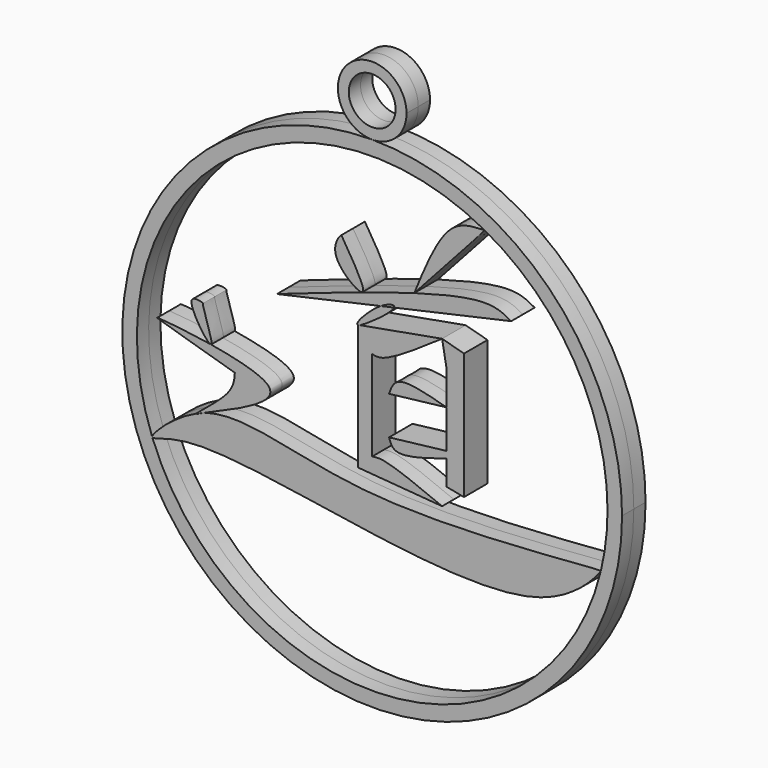
from build123d import *

# Parameters (mm, degrees)
F1_DEPTH = 2
F0_R     = 3.1886034743


with BuildPart() as f1:
    # F0 (on Front) → F1 (new body, symmetric)
    with BuildSketch(Plane.XZ):
        with BuildLine():
            add(Edge.make_bspline(
                [(-23.0578146875, -6.2485882081), (-23.3583668981, -6.354636706), (-23.6570003115, -6.4750779789), (-23.9519339594, -6.6070638823)],
                knots=[0.8874623872, 0.8874623872, 0.8874623872, 0.8874623872, 0.897047407, 0.897047407, 0.897047407, 0.897047407], degree=3))
            add(Edge.make_bspline(
                [(-23.0578146875, -6.2485882081), (-17.7389721809, -3.9790441829), (-9.368772394, -0.4074894898), (-18.6419509874, 1.777119585), (-21.9372625883, 2.3257629736)],
                knots=[0, 0, 0, 0, 0.2991647183, 0.4707919925, 0.4707919925, 0.4707919925, 0.4707919925], degree=3))
            add(Edge.make_bspline(
                [(-21.9372625883, 2.3257629736), (-21.9734135388, 2.3080361054), (-22.0245036058, 2.317611186), (-22.0875613808, 2.3506256316)],
                knots=[0, 0, 0, 0, 0.0314810362, 0.0314810362, 0.0314810362, 0.0314810362], degree=3))
            add(Edge.make_bspline(
                [(-22.0875613808, 2.3506256316), (-25.5816795554, 2.9249114736), (-29.7869262082, 3.2933976155), (-28.4692817, 2.8541862404), (-23.2341246759, 1.3248320898), (-18.6990704387, 0)],
                knots=[0.4734024681, 0.4734024681, 0.4734024681, 0.4734024681, 0.6555584263, 0.7016209426, 1, 1, 1, 1], degree=3))
            add(Edge.make_bspline(
                [(-18.6990704387, 0), (-18.7558922118, -0.8465724681), (-18.8928176547, -2.8564381326), (-23.8943147443, -6.39530831), (-23.9519339594, -6.6070638823)],
                knots=[0, 0, 0, 0, 0.3395189563, 0.8073279822, 0.8073279822, 0.8073279822, 0.8073279822], degree=3))
        make_face()
    extrude(amount=F1_DEPTH, both=True)


with BuildPart() as f1b:
    # F0 (on Front) → F1, piece 2 (new body, symmetric)
    with BuildSketch(Plane.XZ):
        with BuildLine():
            add(Edge.make_bspline(
                [(-21.9372625883, 2.3257629736), (-21.9873847531, 2.3341079186), (-22.0374872008, 2.3423955457), (-22.0875613808, 2.3506256316)],
                knots=[0.4707919925, 0.4707919925, 0.4707919925, 0.4707919925, 0.4734024681, 0.4734024681, 0.4734024681, 0.4734024681], degree=3))
            add(Edge.make_bspline(
                [(-22.0875613808, 2.3506256316), (-22.7865118746, 2.7165672307), (-26.2236129258, 7.8591555502), (-22.8840129067, 6.940981476), (-23.2978602964, 6.8746808847), (-21.5248134705, 2.5280102458), (-21.9372625883, 2.3257629736)],
                knots=[0.0314810362, 0.0314810362, 0.0314810362, 0.0314810362, 0.3804258849, 0.5843541143, 0.6408303126, 1, 1, 1, 1], degree=3))
        make_face()
    extrude(amount=F1_DEPTH, both=True)


with BuildPart() as f1c:
    # F0 (on Front) → F1, piece 3 (new body, symmetric)
    with BuildSketch(Plane.XZ):
        with BuildLine():
            ThreePointArc((31.1204881403, -7.6085659227), (31.1278799464, -7.5782681092), (31.1352422556, -7.5479631146))
            add(Edge.make_bspline(
                [(31.1352422556, -7.5479631146), (30.6115463253, -7.3196606958), (-3.1910873419, -11.3559927527), (-17.2585351085, -4.2023384503), (-23.0578146875, -6.2485882081)],
                knots=[0.4880362271, 0.4880362271, 0.4880362271, 0.4880362271, 0.7025154546, 0.8874623872, 0.8874623872, 0.8874623872, 0.8874623872], degree=3))
            add(Edge.make_bspline(
                [(-23.9519339594, -6.6070638823), (-23.9756650331, -6.6942776194), (-23.517562259, -6.4695682004), (-23.0578146875, -6.2485882081)],
                knots=[0.8073279822, 0.8073279822, 0.8073279822, 0.8073279822, 1, 1, 1, 1], degree=3))
            add(Edge.make_bspline(
                [(-23.9519339594, -6.6070638823), (-27.1198130567, -8.0247230319), (-29.8608544764, -10.7742728824), (-29.9681259604, -11.3263623424)],
                knots=[0.897047407, 0.897047407, 0.897047407, 0.897047407, 1, 1, 1, 1], degree=3))
            ThreePointArc((-29.9681259604, -11.3263623424), (-29.94913051, -11.3764950309), (-29.9300511943, -11.4265958623))
            add(Edge.make_bspline(
                [(-29.9300511943, -11.4265958623), (-29.6373821437, -11.5636180669), (-21.7152427284, -7.4357392596), (22.0268660491, -20.3195375385), (30.775709666, -8.0718314903), (31.1204881403, -7.6085659227)],
                knots=[0.0095833833, 0.0095833833, 0.0095833833, 0.0095833833, 0.0892091936, 0.3527395387, 0.4784384526, 0.4784384526, 0.4784384526, 0.4784384526], degree=3))
        make_face()
    extrude(amount=F1_DEPTH, both=True)


with BuildPart() as f1d:
    # F0 (on Front) → F1, piece 4 (new body, symmetric)
    with BuildSketch(Plane.XZ):
        with BuildLine():
            Line((9.5180645585, 13.2510568947), (-1.7873235685, 11.216087275))
            add(Edge.make_bspline(
                [(-1.7873235685, 11.216087275), (-1.8561171917, 11.1940162061), (-1.9118216362, 11.1836138735), (-1.9523177762, 11.1863883212)],
                knots=[0.9721999653, 0.9721999653, 0.9721999653, 0.9721999653, 1, 1, 1, 1], degree=3))
            Line((-1.9523177762, 11.1863883212), (-1.9523177762, -5.9044775553))
            Line((-1.9523177762, -5.9044775553), (9.5180645585, -6.8221078254))
            add(Edge.make_bspline(
                [(0, -3.9545129985), (0.4407786925, -3.8911353642), (1.8914876751, -3.6825442844), (6.3878572623, -5.5335238574), (9.5180645585, -6.8221078254)],
                knots=[0, 0, 0, 0, 0.3038367431, 1, 1, 1, 1], degree=3))
            Line((0, -3.9545129985), (0, 8.3187939599))
            add(Edge.make_bspline(
                [(0, 8.3187939599), (0.3791205955, 8.2328178616), (1.756200525, 7.9205268365), (6.2566344084, 11.0112403541), (9.5180645585, 13.2510568947)],
                knots=[0, 0, 0, 0, 0.2753076182, 1, 1, 1, 1], degree=3))
        make_face()
    extrude(amount=F1_DEPTH, both=True)


with BuildPart() as f1e:
    # F0 (on Front) → F1, piece 5 (new body, symmetric)
    with BuildSketch(Plane.XZ):
        with BuildLine():
            Line((10.1268256914, -0.9176302701), (10.1268256914, 0))
            Line((10.1268256914, 0), (2.2917236201, -0.9176302701))
            add(Edge.make_bspline(
                [(2.2917236201, -0.9176302701), (2.4691869217, -1.461132962), (3.0184080916, -3.1431888109), (7.2574768088, -1.8159882834), (10.1268256914, -0.9176302701)],
                knots=[0, 0, 0, 0, 0.3231181011, 1, 1, 1, 1], degree=3))
        make_face()
        Polygon((12.5003634021, 12.4481301755), (9.5180645585, 13.2510568947), (10.1268256914, 9.8690501966), (10.1268256914, 5.2217910998), (10.1268256914, 0), (10.1268256914, -0.9176302701), (10.1268256914, -4.2986245826), (12.5003634021, -4.7574397177), align=None)
    extrude(amount=F1_DEPTH, both=True)


with BuildPart() as f1f:
    # F0 (on Front) → F1, piece 6 (new body, symmetric)
    with BuildSketch(Plane.XZ):
        with BuildLine():
            Line((2.2917236201, 4.3041608296), (10.1268256914, 5.2217910998))
            add(Edge.make_bspline(
                [(2.2917236201, 4.3041608296), (2.5566570653, 5.0606052974), (3.2789437266, 7.1228958803), (7.4718621724, 5.9588604395), (10.1268256914, 5.2217910998)],
                knots=[0, 0, 0, 0, 0.3667981971, 1, 1, 1, 1], degree=3))
        make_face()
    extrude(amount=F1_DEPTH, both=True)


with BuildPart() as f1g:
    # F0 (on Front) → F1, piece 7 (new body, symmetric)
    with BuildSketch(Plane.XZ):
        with BuildLine():
            add(Edge.make_bspline(
                [(18.9237743616, 18.4127278626), (18.0213259339, 18.9277339753), (16.0193010817, 20.0702425166), (9.8415568241, 18.6895936468), (5.7328427509, 17.4988398129)],
                knots=[0, 0, 0, 0, 0.2616678816, 0.5804936725, 0.5804936725, 0.5804936725, 0.5804936725], degree=3))
            add(Edge.make_bspline(
                [(5.7328427509, 17.4988398129), (0.326656674, 15.9320632781), (-6.3186115898, 13.6165775751), (-12.9638798535, 11.3010918722)],
                knots=[0.5804936725, 0.5804936725, 0.5804936725, 0.5804936725, 1, 1, 1, 1], degree=3))
            Line((-12.9638798535, 11.3010918722), (1.1585370771, 14.4506960368))
            add(Edge.make_bspline(
                [(1.1585370771, 14.4506960368), (2.2244231832, 15.1168827969), (3.1598069348, 15.3039534966), (2.9799472541, 14.8569098674)],
                knots=[0.3557467005, 0.3557467005, 0.3557467005, 0.3557467005, 0.5846036133, 0.5846036133, 0.5846036133, 0.5846036133], degree=3))
            Line((2.9799472541, 14.8569098674), (18.9237743616, 18.4127278626))
        make_face()
    extrude(amount=F1_DEPTH, both=True)


with BuildPart() as f1h:
    # F0 (on Front) → F1, piece 8 (new body, symmetric)
    with BuildSketch(Plane.XZ):
        with BuildLine():
            add(Edge.make_bspline(
                [(2.9799472541, 14.8569098674), (2.6753335316, 14.0997884079), (-0.8281824135, 11.5238086822), (-1.7873235685, 11.216087275)],
                knots=[0.5846036133, 0.5846036133, 0.5846036133, 0.5846036133, 0.9721999653, 0.9721999653, 0.9721999653, 0.9721999653], degree=3))
            Line((2.9799472541, 14.8569098674), (1.1585370771, 14.4506960368))
            add(Edge.make_bspline(
                [(-1.9523177762, 11.1863883212), (-2.4705318117, 11.221891896), (-0.4983299178, 13.4151418166), (1.1585370771, 14.4506960368)],
                knots=[0, 0, 0, 0, 0.3557467005, 0.3557467005, 0.3557467005, 0.3557467005], degree=3))
            Line((-1.9523177762, 11.1863883212), (-1.7873235685, 11.216087275))
        make_face()
    extrude(amount=F1_DEPTH, both=True)


with BuildPart() as f1i:
    # F0 (on Front) → F1, piece 9 (new body, symmetric)
    with BuildSketch(Plane.XZ):
        with BuildLine():
            add(Edge.make_bspline(
                [(5.7328427509, 17.4988398129), (10.5187431747, 22.7771037569), (15.3245477741, 28.0445263606), (15.3080999086, 28.1431543129)],
                knots=[0, 0, 0, 0, 0.9831852273, 0.9831852273, 0.9831852273, 0.9831852273], degree=3))
            add(Edge.make_bspline(
                [(15.3080999086, 28.1431543129), (13.8149085214, 28.0892244966), (9.9852630683, 27.95090862), (7.3441668481, 21.4593303283), (5.7328427509, 17.4988398129)],
                knots=[0, 0, 0, 0, 0.3899032966, 1, 1, 1, 1], degree=3))
        make_face()
    extrude(amount=F1_DEPTH, both=True)


with BuildPart() as f1j:
    # F0 (on Front) → F1, piece 10 (new body, symmetric)
    with BuildSketch(Plane.XZ):
        with BuildLine():
            add(Edge.make_bspline(
                [(-1.2681921542, 15.3763521294), (-0.8436707695, 16.0299739544), (-4.0685874991, 20.8744299633), (-4.2083587036, 21.4081805452), (-6.4608402672, 18.2779128624), (-1.6429913833, 14.7992858968), (-1.2681921542, 15.3763521294)],
                knots=[0, 0, 0, 0, 0.3604116573, 0.4428416292, 0.6818016331, 1, 1, 1, 1], degree=3))
        make_face()
    extrude(amount=F1_DEPTH, both=True)


with BuildPart() as f1k:
    # F0 (on Front) → F1, piece 11 (new body, symmetric)
    with BuildSketch(Plane.XZ):
        with BuildLine():
            ThreePointArc((0, 34.0185711823), (-24.0547623693, -24.0547623693), (34.0185711823, 0))
            ThreePointArc((34.0185711823, 0), (24.0547623693, 24.0547623693), (0, 34.0185711823))
        make_face()
        with BuildLine():
            ThreePointArc((15.3080999086, 28.1431543129), (27.5390814418, 16.3699129758), (32.0370887799, 0))
            ThreePointArc((32.0370887799, 0), (31.8108281707, -3.8008247241), (31.1352422556, -7.5479631146))
            add(Edge.make_bspline(
                [(31.1204881403, -7.6085659227), (31.1468137936, -7.5731931554), (31.1586772309, -7.5581794658), (31.1352422556, -7.5479631146)],
                knots=[0.4784384526, 0.4784384526, 0.4784384526, 0.4784384526, 0.4880362271, 0.4880362271, 0.4880362271, 0.4880362271], degree=3))
            ThreePointArc((31.1204881403, -7.6085659227), (1.9996557668, -31.9746217226), (-29.9300511943, -11.4265958623))
            add(Edge.make_bspline(
                [(-29.9681259604, -11.3263623424), (-29.9781113694, -11.3777538105), (-29.9652754472, -11.4101045224), (-29.9300511943, -11.4265958623)],
                knots=[0, 0, 0, 0, 0.0095833833, 0.0095833833, 0.0095833833, 0.0095833833], degree=3))
            ThreePointArc((-29.9681259604, -11.3263623424), (-21.0536512645, 24.1478534434), (15.3044210795, 28.1451550522))
            add(Edge.make_bspline(
                [(15.3080999086, 28.1431543129), (15.3078186115, 28.1448410821), (15.3061268529, 28.1450160296), (15.3044210795, 28.1451550522)],
                knots=[0.9831852273, 0.9831852273, 0.9831852273, 0.9831852273, 1, 1, 1, 1], degree=3))
        make_face(mode=Mode.SUBTRACT)
    extrude(amount=F1_DEPTH, both=True)


with BuildPart() as f1l:
    # F0 (on Front) → F1, piece 12 (new body, symmetric)
    with BuildSketch(Plane.XZ):
        with BuildLine():
            ThreePointArc((4.6736275114, 38.6921986938), (-3.3047537061, 41.9969523998), (0, 34.0185711823))
            ThreePointArc((0, 34.0185711823), (3.3047537061, 35.3874449877), (4.6736275114, 38.6921986938))
        make_face()
        with Locations((0, 38.6921986938)):
            Circle(F0_R, mode=Mode.SUBTRACT)
    extrude(amount=F1_DEPTH, both=True)


solid = Compound([f1.part, f1b.part, f1c.part, f1d.part, f1e.part, f1f.part, f1g.part, f1h.part, f1i.part, f1j.part, f1k.part, f1l.part])
